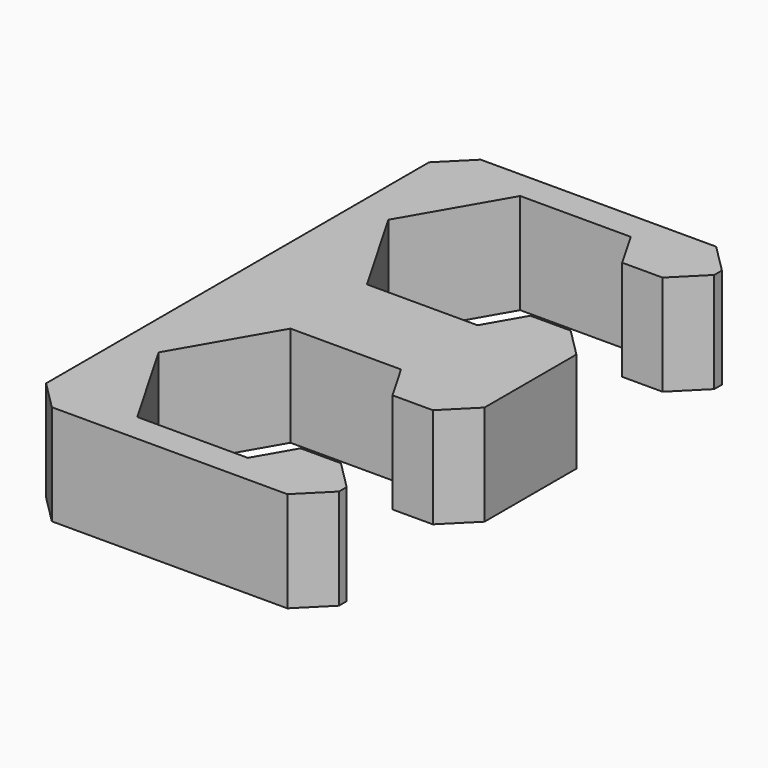
from build123d import *

# Parameters (mm, degrees)
SKETCH_W     = 20.4
SKETCH_H     = 37.336792
PAD_DEPTH    = 7
SKETCH001_W  = 8
SKETCH001_H  = 8
POCKET_DEPTH = 7
CHAMFER_SIZE = 2


with BuildPart() as part:
    # Sketch → Pad (new body)
    with BuildSketch(Plane.XY):
        Rectangle(SKETCH_W, SKETCH_H)
        Polygon((3.85, 3.331604), (7.7, 10), (3.85, 16.668396), (-3.85, 16.668396), (-7.7, 10), (-3.85, 3.331604), align=None, mode=Mode.SUBTRACT)
        Polygon((3.85, -3.331604), (-3.85, -3.331604), (-7.7, -10), (-3.85, -16.668396), (3.85, -16.668396), (7.7, -10), align=None, mode=Mode.SUBTRACT)
    extrude(amount=PAD_DEPTH)

    # Sketch001 → Pocket (cut)
    with BuildSketch(Plane.XY.offset(7)):
        with Locations((7.7, 10)):
            Rectangle(SKETCH001_W, SKETCH001_H)
    pocket = extrude(amount=-POCKET_DEPTH, mode=Mode.SUBTRACT)

    # Mirrored: Pocket across Sketch001 H_Axis
    add(pocket.mirror(Plane(origin=(0, 0, 7), x_dir=(0, 0, 1), z_dir=(0, 1, 0))), mode=Mode.SUBTRACT)

    # Chamfer
    chamfer_edges = [part.edges().sort_by_distance(p)[0] for p in [
        (-10.2, 18.668396, 3.5),
        (10.2, 18.668396, 3.5),
        (-10.2, -18.668396, 3.5),
        (10.2, 14, 3.5),
        (10.2, -18.668396, 3.5),
        (10.2, 6, 3.5),
        (10.2, -6, 3.5),
        (10.2, -14, 3.5),
    ]]
    chamfer(chamfer_edges, length=CHAMFER_SIZE)


solid = part.part
